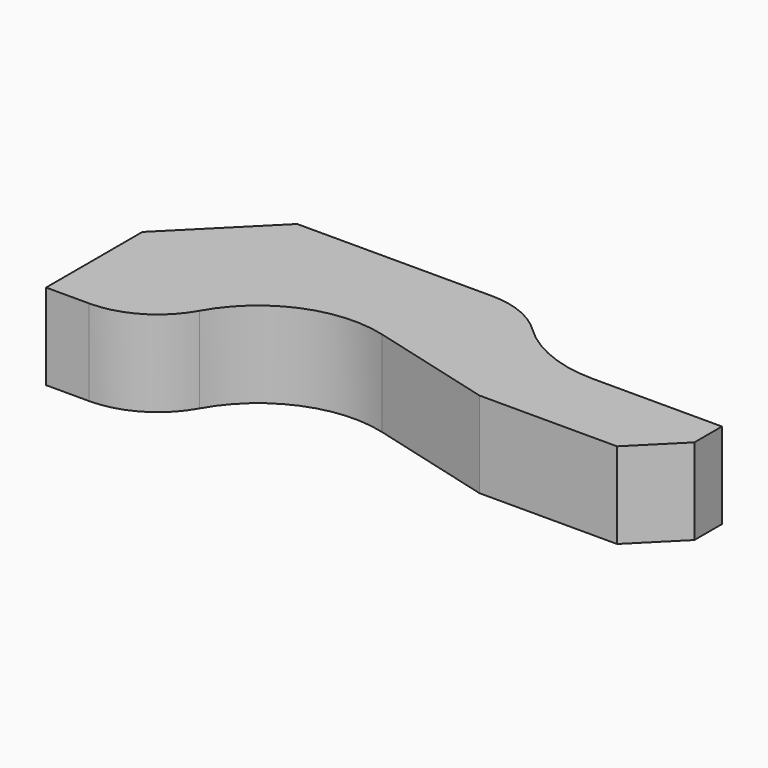
from build123d import *

# Parameters (mm, degrees)
F1_DEPTH = 10


with BuildPart() as f1:
    # F0 (on Top) → F1 (new body)
    with BuildSketch(Plane.XY):
        with BuildLine():
            Line((0, 14), (0, 0))
            Line((0, 0), (5, 0))
            ThreePointArc((5, 0), (10.069501, 1.380246), (13.739571, 5.139969))
            ThreePointArc((13.739571, 5.139969), (20.513532, 11.226724), (29.598437, 11.858887))
            Line((29.598437, 11.858887), (44, 8))
            Line((44, 8), (60, 8))
            Line((60, 8), (65, 13))
            Line((65, 13), (65, 17))
            Line((65, 17), (50, 17))
            ThreePointArc((50, 17), (44.387514, 18.089572), (39.590389, 21.2))
            ThreePointArc((39.590389, 21.2), (36.392306, 23.273618), (32.650648, 24))
            Line((32.650648, 24), (10, 24))
            Line((10, 24), (0, 14))
        make_face()
    extrude(amount=F1_DEPTH)


solid = f1.part
